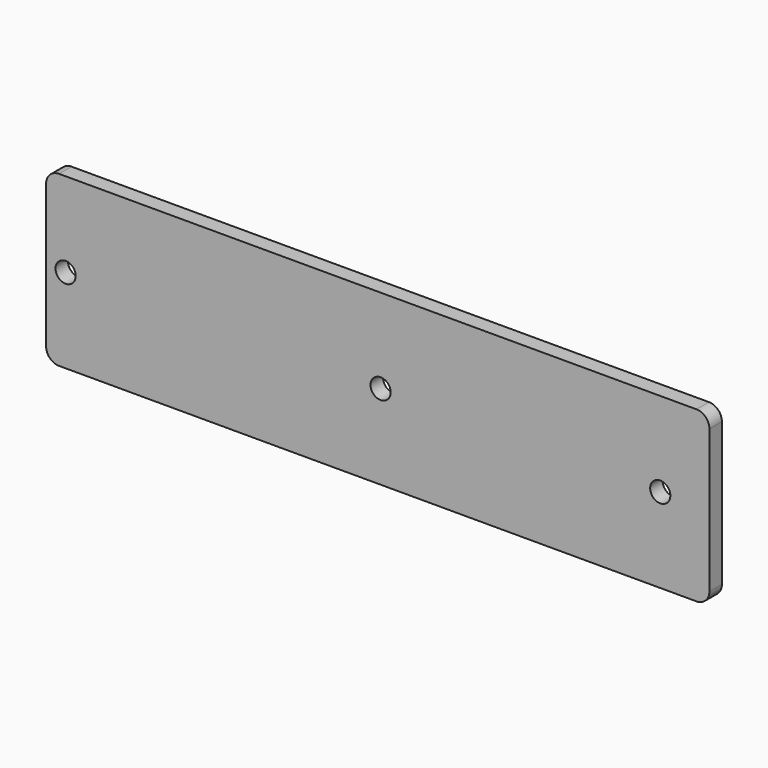
from build123d import *

# Parameters (mm, degrees)
F0_R     = 1.55
F1_DEPTH = 2.4


with BuildPart() as f1:
    # F0 (on Front) → F1 (new body)
    with BuildSketch(Plane.XZ):
        with BuildLine():
            Line((49.895372, 37.205682), (-48.104628, 37.205682))
            ThreePointArc((-48.104628, 37.205682), (-49.518842, 36.619896), (-50.104628, 35.205682))
            Line((-50.104628, 35.205682), (-50.104628, 13.205682))
            ThreePointArc((-50.104628, 13.205682), (-49.518842, 11.791469), (-48.104628, 11.205682))
            Line((-48.104628, 11.205682), (49.895372, 11.205682))
            ThreePointArc((49.895372, 11.205682), (51.309586, 11.791469), (51.895372, 13.205682))
            Line((51.895372, 13.205682), (51.895372, 35.205682))
            ThreePointArc((51.895372, 35.205682), (51.309586, 36.619896), (49.895372, 37.205682))
        make_face()
        with Locations((-47.104628, 24.205682)):
            Circle(F0_R, mode=Mode.SUBTRACT)
        with Locations((1.335372, 24.205682)):
            Circle(F0_R, mode=Mode.SUBTRACT)
        with Locations((44.335372, 24.205682)):
            Circle(F0_R, mode=Mode.SUBTRACT)
    extrude(amount=F1_DEPTH)


solid = f1.part
